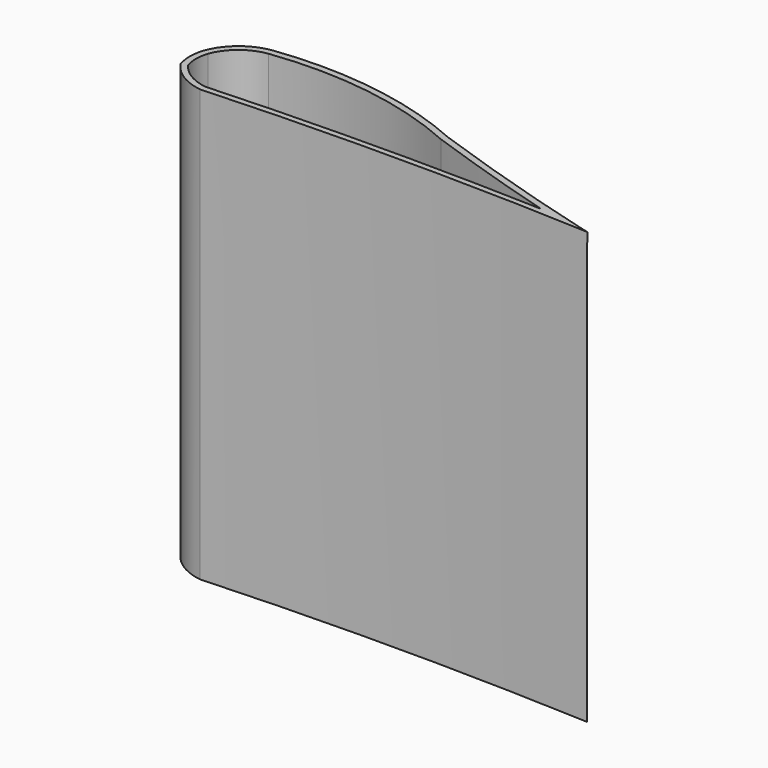
from build123d import *

# Parameters (mm, degrees)
F3_DEPTH = 100
F4_DEPTH = 25
F2_W     = 130.920828
F2_H     = 57.169587
F5_DEPTH = 100
F6_R     = 5.5
F6_R_2   = 4
F6_R_3   = 2.5
F7_DEPTH = 100


with BuildPart() as f3:
    # F0 (on Top) → F3 (new body)
    with BuildSketch(Plane.XY):
        with BuildLine():
            ThreePointArc((-50.955394, 8.962345), (-50.814737, 7.217467), (-50.396399, 5.517649))
            ThreePointArc((-50.396399, 5.517649), (-46.499614, 1.806953), (-41.431171, 0))
            ThreePointArc((-41.431171, 0), (3.806717, 1.130986), (49.044606, 0))
            ThreePointArc((49.044606, 0), (27.138267, 6.303353), (5.490228, 13.443548))
            ThreePointArc((5.490228, 13.443548), (-17.086444, 20.012497), (-40.598205, 20.245597))
            ThreePointArc((-40.598205, 20.245597), (-46.578725, 17.678098), (-50.396399, 12.407041))
            ThreePointArc((-50.396399, 12.407041), (-50.814737, 10.707224), (-50.955394, 8.962345))
        make_face()
        with BuildLine():
            ThreePointArc((-40.401325, 18.758555), (-17.271527, 18.523557), (4.934787, 12.048809))
            ThreePointArc((4.934787, 12.048809), (20.441613, 6.838342), (36.085862, 2.056282))
            ThreePointArc((36.085862, 2.056282), (-2.645042, 2.608034), (-41.364174, 1.505217))
            ThreePointArc((-41.364174, 1.505217), (-45.679897, 3.063858), (-49.037404, 6.191472))
            ThreePointArc((-49.037404, 6.191472), (-49.45495, 9.05371), (-48.981805, 11.907284))
            ThreePointArc((-48.981805, 11.907284), (-45.633862, 16.513045), (-40.401325, 18.758555))
        make_face(mode=Mode.SUBTRACT)
    extrude(amount=F3_DEPTH)

    # F1 (on Front) → F4 (join)
    with BuildSketch(Plane.XZ):
        Polygon((-50.949167, 1.414214), (-50.949167, 0), (-49.534954, 0), (49.050833, 98.585786), (49.050833, 100), (47.636619, 100), align=None)
    extrude(amount=-F4_DEPTH)

    # F2 (on Top) → F5 (cut)
    with BuildSketch(Plane.XY):
        with Locations((0.042133, 7.232606)):
            Rectangle(F2_W, F2_H)
        with BuildLine():
            ThreePointArc((-41.397933, 0.104339), (-46.4615, 1.912404), (-50.354612, 5.62084))
            ThreePointArc((-50.354612, 5.62084), (-50.907918, 9.032238), (-50.354612, 12.443636))
            ThreePointArc((-50.354612, 12.443636), (-46.537025, 17.713711), (-40.557266, 20.28084))
            ThreePointArc((-40.557266, 20.28084), (-17.07095, 20.047617), (5.481051, 13.484941))
            ThreePointArc((5.481051, 13.484941), (26.810456, 6.442957), (48.391087, 0.213235))
            ThreePointArc((48.391087, 0.213235), (3.495226, 1.272535), (-41.397933, 0.104339))
        make_face(mode=Mode.SUBTRACT)
    extrude(amount=F5_DEPTH, mode=Mode.SUBTRACT)

    # F6 (on Top) → F7 (cut)
    with BuildSketch(Plane.XY):
        with Locations((-38.668361, 9.792585)):
            Circle(F6_R)
        with Locations((-22.44026, 9.580453)):
            Circle(F6_R)
        with Locations((-6.742489, 9.156189)):
            Circle(F6_R_2)
        with Locations((5.561169, 6.928802)):
            Circle(F6_R_3)
    extrude(amount=F7_DEPTH, mode=Mode.SUBTRACT)


solid = f3.part
